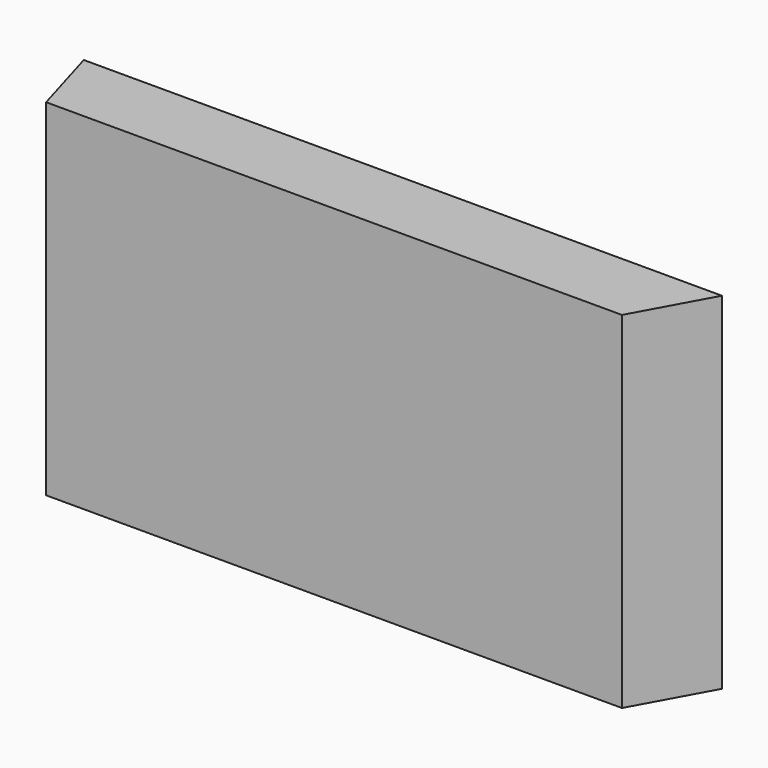
from build123d import *

# Parameters (mm, degrees)
F0_W     = 163.938712
F0_H     = 88.9
F1_DEPTH = 19.05
F3_DEPTH = 88.901
F4_DEPTH = 88.901


with BuildPart() as f1:
    # F0 (on Front) → F1 (new body)
    with BuildSketch(Plane.XZ):
        with Locations((-1133.26766, -1068.65232)):
            Rectangle(F0_W, F0_H)
    extrude(amount=F1_DEPTH)

    # F2 (on face) → F3 (cut, through all)
    with BuildSketch(Plane.XY.offset(-1024.20232)):
        Polygon((-1209.678422, -19.05), (-1215.237016, 0), (-1215.237016, -19.05), align=None)
    extrude(amount=-F3_DEPTH, mode=Mode.SUBTRACT)

    # F2 (on face) → F4 (cut, through all)
    with BuildSketch(Plane.XY.offset(-1024.20232)):
        Polygon((-1051.298304, -19.05), (-1051.298304, 0), (-1061.742284, -19.05), align=None)
    extrude(amount=-F4_DEPTH, mode=Mode.SUBTRACT)


solid = f1.part
